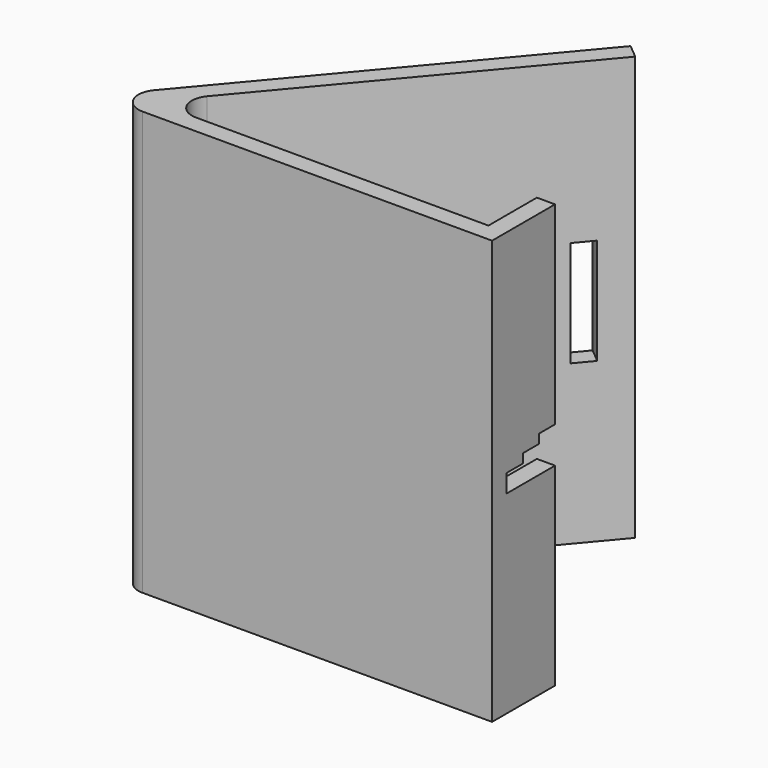
from build123d import *

# Parameters (mm, degrees)
PAD_DEPTH       = 70
SKETCH001_W     = 3.5
SKETCH001_H     = 17.5
SKETCH001_H_2   = 15.5
POCKET_DEPTH    = 34.50505
POCKET001_DEPTH = 5


with BuildPart() as part:
    # Sketch → Pad (new body)
    with BuildSketch(Plane.XY):
        with BuildLine():
            Line((7.250462, 0), (65, 0))
            Line((65, 0), (65, 3))
            Line((65, 3), (65, 13))
            Line((65, 13), (62, 13))
            Line((62, 13), (62, 3))
            Line((62, 3), (13.683983, 3))
            ThreePointArc((11.094028, 8.554176), (10.619805, 4.952097), (13.683983, 3))
            Line((11.094028, 8.554176), (47.293266, 51.694748))
            Line((47.293266, 51.694748), (44.995133, 53.623111))
            Line((4.660507, 5.554176), (44.995133, 53.623111))
            ThreePointArc((4.660507, 5.554176), (4.186285, 1.952097), (7.250462, 0))
        make_face()
    extrude(amount=PAD_DEPTH)

    # Sketch001 (on Face9 of Pad) → Pocket (cut, through all)
    with BuildSketch(Plane(origin=(2.298133, -1.928363, 0), x_dir=(0.642788, 0.766044, 0), z_dir=(0.766044, -0.642788, 0))):
        with Locations((63.25, 35)):
            Rectangle(SKETCH001_W, SKETCH001_H)
        with Locations((33.75, 36)):
            Rectangle(SKETCH001_W, SKETCH001_H_2)
    extrude(amount=-POCKET_DEPTH, mode=Mode.SUBTRACT)

    # Sketch002 (on Face16 of Pocket) → Pocket001 (cut)
    with BuildSketch(Plane.YZ.offset(65)):
        Polygon((3, 35), (3, 32), (13, 32), (13, 38), (9.666667, 38), (9.666667, 36.5), (6.333333, 36.5), (6.333333, 35), align=None)
    extrude(amount=-POCKET001_DEPTH, mode=Mode.SUBTRACT)


solid = part.part
